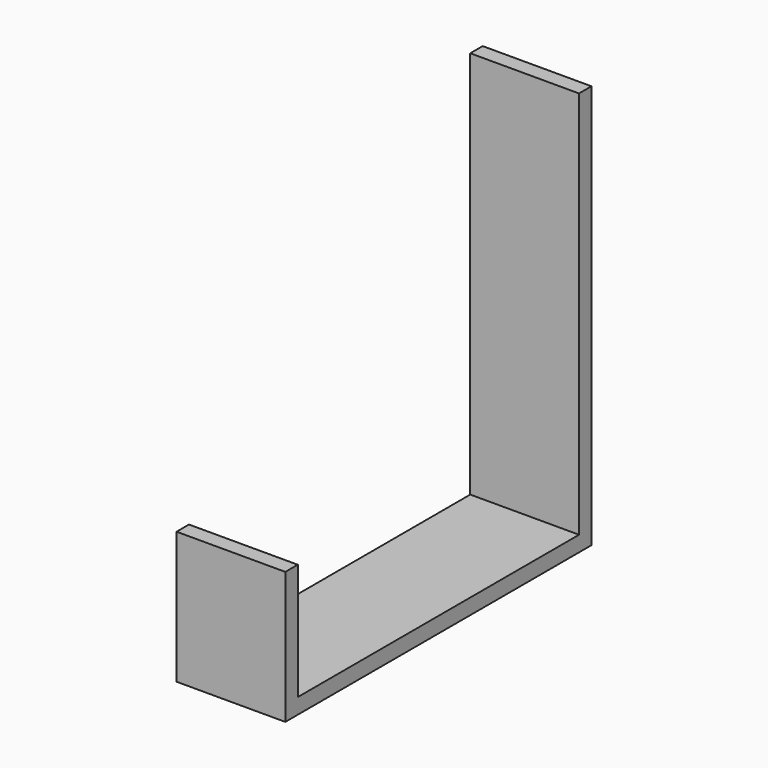
from build123d import *

# Parameters (mm, degrees)
PAD_DEPTH = 14


with BuildPart() as part:
    # Sketch → Pad (new body)
    with BuildSketch(Plane.YZ):
        Polygon((0, 0), (0, 17), (2, 17), (2, 2), (47.25, 2), (47.25, 52), (49.25, 52), (49.25, 0), align=None)
    extrude(amount=PAD_DEPTH)


solid = part.part
